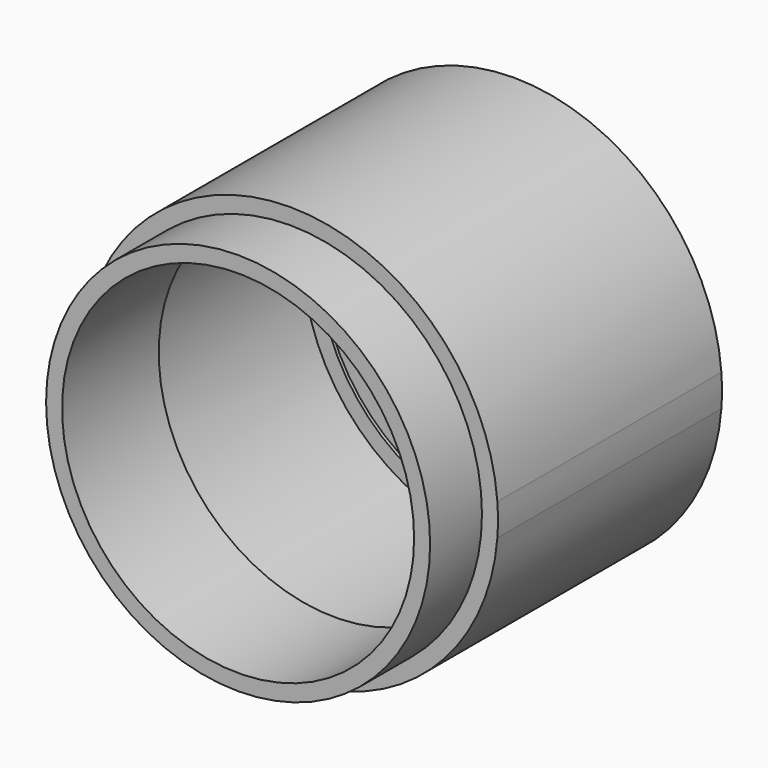
from build123d import *

# Parameters (mm, degrees)
F0_R      = 24
F1_DEPTH  = 35
F2_START  = 1
F0_R_2    = 22
F2_DEPTH  = 2
F3_START  = -27
F2_FACE_R = 24
F3_DEPTH  = 15.1
F4_R      = 22
F5_DEPTH  = 40.5


with BuildPart() as f1:
    # F0 (on Front) → F1 (new body)
    with BuildSketch(Plane.XZ):
        with BuildLine():
            ThreePointArc((-25.9229627936, 2), (-26, 0), (-25.9229627936, -2))
            ThreePointArc((-25.9229627936, -2), (0, -26), (25.9229627936, -2))
            ThreePointArc((25.9229627936, -2), (26, 0), (25.9229627936, 2))
            ThreePointArc((25.9229627936, 2), (0, 26), (-25.9229627936, 2))
        make_face()
        Circle(F0_R, mode=Mode.SUBTRACT)
    extrude(amount=F1_DEPTH)

    # F0 (on Front) → F2 (join)
    with BuildSketch(Plane.XZ.offset(F2_START)):
        Circle(F0_R)
        Circle(F0_R_2, mode=Mode.SUBTRACT)
        Circle(F0_R_2)
    extrude(amount=F2_DEPTH)

    # F2_face (on face) → F3 (join)
    with BuildSketch(Plane(origin=(0, -1, 0), x_dir=(1, 0, 0), z_dir=(0, 1, 0)).offset(F3_START)):
        Circle(F2_FACE_R)
    extrude(amount=-F3_DEPTH)

    # F4 (on face) → F5 (cut)
    with BuildSketch(Plane.XZ.offset(43.1)):
        Circle(F4_R)
    extrude(amount=-F5_DEPTH, mode=Mode.SUBTRACT)


solid = f1.part
